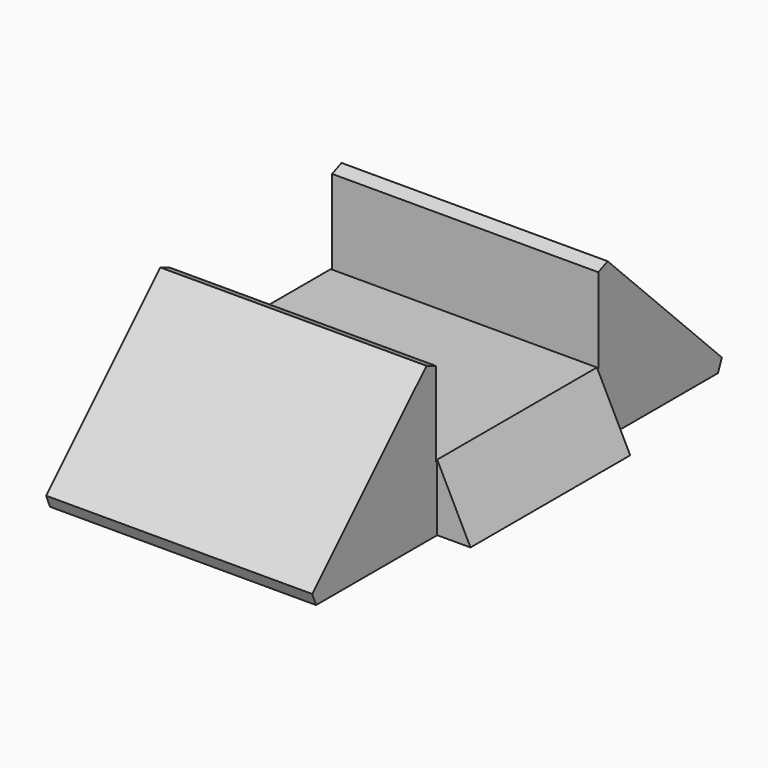
from build123d import *

# Parameters (mm, degrees)
PAD001_DEPTH    = 8
SKETCH009_W     = 6
SKETCH009_H     = 10
PAD004_DEPTH    = 2
POCKET005_DEPTH = 11.051
CHAMFER_SIZE    = 0.5


with BuildPart() as part:
    # Sketch003 → Pad001 (new body)
    with BuildSketch(Plane.YZ):
        Polygon((-3.05, 2.5), (-8.05, -2.5), (8.05, -2.5), (3.05, 2.5), (3.05, -0.55), (-3.05, -0.55), align=None)
    extrude(amount=PAD001_DEPTH)

    # Sketch009 (on Face2 of Pad001) → Pad004 (join)
    with BuildSketch(Plane.YX.offset(2.5)):
        with Locations((0, 4)):
            Rectangle(SKETCH009_W, SKETCH009_H)
    extrude(amount=-PAD004_DEPTH)

    # Sketch010 (on Face8 of Pad004) → Pocket005 (cut, through all)
    with BuildSketch(Plane(origin=(0, -3, 0), x_dir=(0, 0, -1), z_dir=(0, -1, 0))):
        Polygon((2.5, 9), (0.5, 9), (0.5, 8), align=None)
        Polygon((2.5, -1), (0.5, -1), (0.5, 0), align=None)
    extrude(amount=-POCKET005_DEPTH, mode=Mode.SUBTRACT)

    # Chamfer
    chamfer_edges = [part.edges().sort_by_distance(p)[0] for p in [
        (4, -3.05, 2.5),
        (4, 3.05, 2.5),
        (4, -8.05, -2.5),
        (4, 8.05, -2.5),
    ]]
    chamfer(chamfer_edges, length=CHAMFER_SIZE)


with BuildPart() as part_1:
    # Body001 placement: moved
    add(part.part.moved(Location((8.5, -3, -20.5))))


solid = part_1.part
